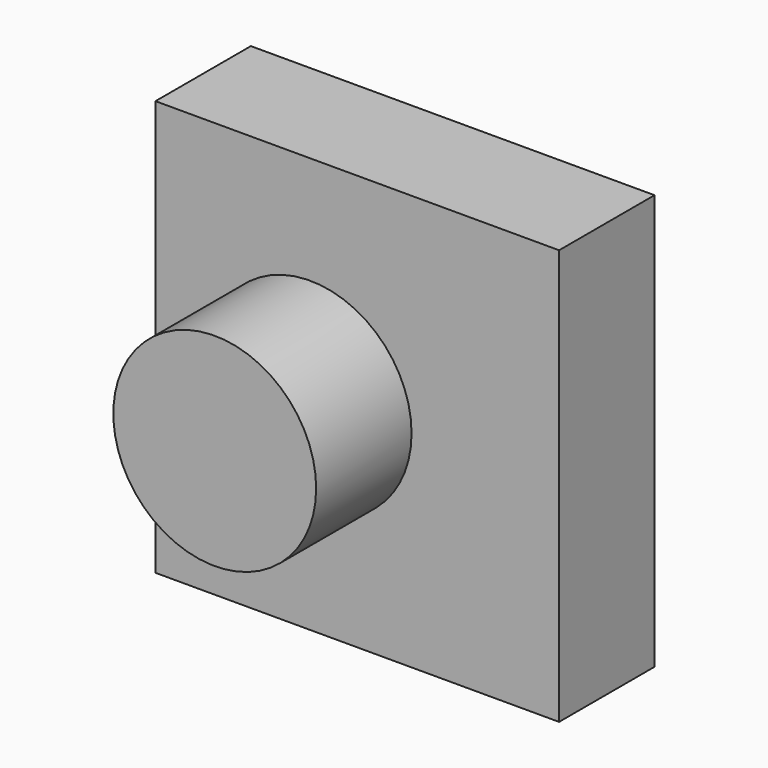
from build123d import *

# Parameters (mm, degrees)
F0_W     = 85.970102
F0_H     = 88.436585
F1_DEPTH = 25.4
F2_R     = 21.601731
F3_DEPTH = 25.4


with BuildPart() as f1:
    # F0 (on Front) → F1 (new body)
    with BuildSketch(Plane.XZ):
        with Locations((-13.899357, 6.540819)):
            Rectangle(F0_W, F0_H)
    extrude(amount=-F1_DEPTH)

    # F2 (on face) → F3 (join)
    with BuildSketch(Plane.XZ):
        with Locations((-23.937779, 6.216932)):
            Circle(F2_R)
    extrude(amount=F3_DEPTH)


solid = f1.part
